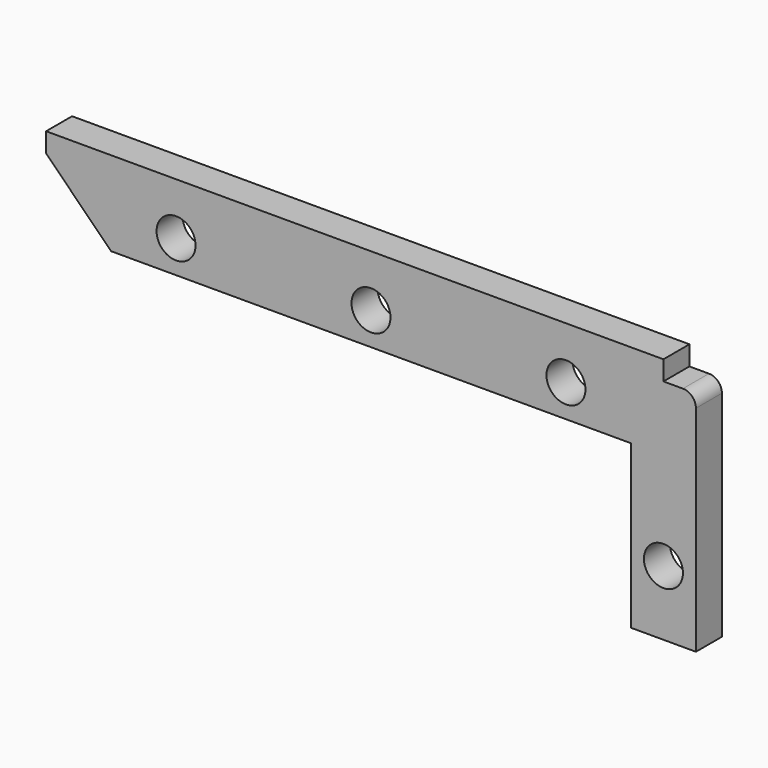
from build123d import *

# Parameters (mm, degrees)
F0_R     = 3
F1_DEPTH = 5


with BuildPart() as f1:
    # F0 (on Front) → F1 (new body)
    with BuildSketch(Plane.XZ):
        with BuildLine():
            Line((45, 19), (-50, 19))
            Line((-50, 19), (-50, 16))
            Line((-50, 16), (-40, 6))
            Line((-40, 6), (40, 6))
            Line((40, 6), (40, -19))
            Line((40, -19), (50, -19))
            Line((50, -19), (50, 14))
            ThreePointArc((50, 14), (49.414214, 15.414214), (48, 16))
            Line((48, 16), (45, 16))
            Line((45, 16), (45, 19))
        make_face()
        with Locations((45, -9)):
            Circle(F0_R, mode=Mode.SUBTRACT)
        with Locations((-30, 11)):
            Circle(F0_R, mode=Mode.SUBTRACT)
        with Locations((0, 11)):
            Circle(F0_R, mode=Mode.SUBTRACT)
        with Locations((30, 11)):
            Circle(F0_R, mode=Mode.SUBTRACT)
    extrude(amount=F1_DEPTH)


solid = f1.part
